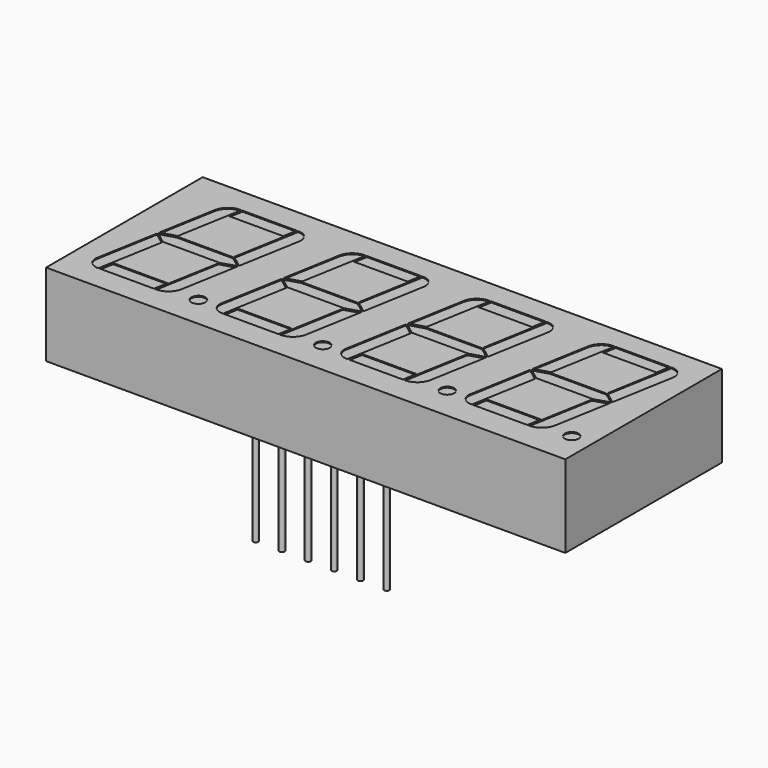
from build123d import *

# Parameters (mm, degrees)
SKETCH_W     = 50.4
SKETCH_H     = 19
PAD_DEPTH    = 8
SKETCH001_R  = 0.255
PAD001_DEPTH = 10
SKETCH002_R  = 0.675
POCKET_DEPTH = 0.1


with BuildPart() as part:
    # Sketch → Pad (new body)
    with BuildSketch(Plane.XY):
        with Locations((25.2, 9.5)):
            Rectangle(SKETCH_W, SKETCH_H)
    extrude(amount=PAD_DEPTH)

    # Sketch001 (on Face5 of Pad) → Pad001 (join)
    with BuildSketch(Plane(origin=(0, 0, 0), x_dir=(1, 0, 0), z_dir=(0, 0, -1))):
        with Locations((18.85, -1.88)):
            Circle(SKETCH001_R)
        with Locations((21.39, -1.88)):
            Circle(SKETCH001_R)
        with Locations((23.93, -1.88)):
            Circle(SKETCH001_R)
        with Locations((26.47, -1.88)):
            Circle(SKETCH001_R)
        with Locations((29.01, -1.88)):
            Circle(SKETCH001_R)
        with Locations((31.55, -1.88)):
            Circle(SKETCH001_R)
        with Locations((18.85, -17.12)):
            Circle(SKETCH001_R)
        with Locations((21.39, -17.12)):
            Circle(SKETCH001_R)
        with Locations((23.93, -17.12)):
            Circle(SKETCH001_R)
        with Locations((26.47, -17.12)):
            Circle(SKETCH001_R)
        with Locations((29.01, -17.12)):
            Circle(SKETCH001_R)
        with Locations((31.55, -17.12)):
            Circle(SKETCH001_R)
    extrude(amount=PAD001_DEPTH)

    # Sketch002 (on Face5 of Pad001) → Pocket (cut)
    with BuildSketch(Plane.XY.offset(8)):
        with Locations((12.322725, 3.075)):
            Circle(SKETCH002_R)
        with Locations((24.347524, 3.14456)):
            Circle(SKETCH002_R)
        with Locations((36.372322, 3.21412)):
            Circle(SKETCH002_R)
        with Locations((48.397121, 3.28368)):
            Circle(SKETCH002_R)
        with BuildLine():
            Line((3.111134, 9.844872), (4.559645, 10.285447))
            Line((4.559645, 10.285447), (5.673071, 16.6))
            Line((5.673071, 16.6), (5.573071, 16.6))
            ThreePointArc((5.573071, 16.6), (4.599562, 16.245672), (4.081569, 15.348481))
            Line((4.081569, 15.348481), (3.111134, 9.844872))
        make_face()
        Polygon((5.774614, 16.6), (5.536573, 15.25), (10.816791, 15.25), (11.054833, 16.6), align=None)
        with BuildLine():
            Line((11.156375, 16.6), (11.256375, 16.6))
            ThreePointArc((12.306525, 15.348481), (12.073246, 16.219087), (11.256375, 16.6))
            Line((12.306525, 15.348481), (11.253419, 9.376022))
            Line((11.253419, 9.376022), (10.042949, 10.285447))
            Line((10.042949, 10.285447), (11.156375, 16.6))
        make_face()
        Polygon((3.091659, 9.734425), (4.540171, 10.175), (10.023474, 10.175), (11.233944, 9.265575), (9.785433, 8.825), (4.302129, 8.825), align=None)
        with BuildLine():
            Line((3.072185, 9.623978), (4.282654, 8.714553))
            Line((4.282654, 8.714553), (3.169228, 2.4))
            Line((3.169228, 2.4), (3.069228, 2.4))
            ThreePointArc((2.019079, 3.651519), (2.252357, 2.780913), (3.069228, 2.4))
            Line((2.019079, 3.651519), (3.072185, 9.623978))
        make_face()
        with BuildLine():
            Line((11.214469, 9.155128), (9.765958, 8.714553))
            Line((9.765958, 8.714553), (8.652532, 2.4))
            Line((8.652532, 2.4), (8.752532, 2.4))
            ThreePointArc((8.752532, 2.4), (9.726041, 2.754328), (10.244035, 3.651519))
            Line((10.244035, 3.651519), (11.214469, 9.155128))
        make_face()
        Polygon((3.270771, 2.4), (8.550989, 2.4), (8.789031, 3.75), (3.508812, 3.75), align=None)
        with BuildLine():
            Line((15.135933, 9.914432), (16.584444, 10.355007))
            Line((16.584444, 10.355007), (17.69787, 16.66956))
            Line((17.69787, 16.66956), (17.59787, 16.66956))
            ThreePointArc((17.59787, 16.66956), (16.624361, 16.315232), (16.106368, 15.418041))
            Line((16.106368, 15.418041), (15.135933, 9.914432))
        make_face()
        Polygon((17.799413, 16.66956), (17.561372, 15.31956), (22.84159, 15.31956), (23.079631, 16.66956), align=None)
        with BuildLine():
            Line((23.181174, 16.66956), (23.281174, 16.66956))
            ThreePointArc((24.331323, 15.418041), (24.098045, 16.288647), (23.281174, 16.66956))
            Line((24.331323, 15.418041), (23.278218, 9.445581))
            Line((23.278218, 9.445581), (22.067748, 10.355007))
            Line((22.067748, 10.355007), (23.181174, 16.66956))
        make_face()
        Polygon((15.116458, 9.803985), (16.564969, 10.24456), (22.048273, 10.24456), (23.258743, 9.335135), (21.810232, 8.89456), (16.326928, 8.89456), align=None)
        with BuildLine():
            Line((15.096984, 9.693538), (16.307453, 8.784113))
            Line((16.307453, 8.784113), (15.194027, 2.46956))
            Line((15.194027, 2.46956), (15.094027, 2.46956))
            ThreePointArc((14.043878, 3.721079), (14.277156, 2.850473), (15.094027, 2.46956))
            Line((14.043878, 3.721079), (15.096984, 9.693538))
        make_face()
        with BuildLine():
            Line((23.239268, 9.224688), (21.790757, 8.784113))
            Line((21.790757, 8.784113), (20.677331, 2.46956))
            Line((20.677331, 2.46956), (20.777331, 2.46956))
            ThreePointArc((20.777331, 2.46956), (21.75084, 2.823888), (22.268833, 3.721079))
            Line((22.268833, 3.721079), (23.239268, 9.224688))
        make_face()
        Polygon((15.29557, 2.46956), (20.575788, 2.46956), (20.81383, 3.81956), (15.533611, 3.81956), align=None)
        with BuildLine():
            Line((27.160732, 9.983991), (28.609243, 10.424566))
            Line((28.609243, 10.424566), (29.722669, 16.73912))
            Line((29.722669, 16.73912), (29.622669, 16.73912))
            ThreePointArc((29.622669, 16.73912), (28.64916, 16.384791), (28.131167, 15.487601))
            Line((28.131167, 15.487601), (27.160732, 9.983991))
        make_face()
        Polygon((29.824212, 16.73912), (29.58617, 15.38912), (34.866389, 15.38912), (35.10443, 16.73912), align=None)
        with BuildLine():
            Line((35.205973, 16.73912), (35.305973, 16.73912))
            ThreePointArc((36.356122, 15.487601), (36.122844, 16.358206), (35.305973, 16.73912))
            Line((36.356122, 15.487601), (35.303016, 9.515141))
            Line((35.303016, 9.515141), (34.092547, 10.424566))
            Line((34.092547, 10.424566), (35.205973, 16.73912))
        make_face()
        Polygon((27.141257, 9.873545), (28.589768, 10.31412), (34.073072, 10.31412), (35.283542, 9.404695), (33.835031, 8.96412), (28.351727, 8.96412), align=None)
        with BuildLine():
            Line((27.121782, 9.763098), (28.332252, 8.853673))
            Line((28.332252, 8.853673), (27.218826, 2.53912))
            Line((27.218826, 2.53912), (27.118826, 2.53912))
            ThreePointArc((26.068677, 3.790639), (26.301955, 2.920033), (27.118826, 2.53912))
            Line((26.068677, 3.790639), (27.121782, 9.763098))
        make_face()
        with BuildLine():
            Line((35.264067, 9.294248), (33.815556, 8.853673))
            Line((33.815556, 8.853673), (32.70213, 2.53912))
            Line((32.70213, 2.53912), (32.80213, 2.53912))
            ThreePointArc((32.80213, 2.53912), (33.775639, 2.893448), (34.293632, 3.790639))
            Line((34.293632, 3.790639), (35.264067, 9.294248))
        make_face()
        Polygon((27.320369, 2.53912), (32.600587, 2.53912), (32.838628, 3.88912), (27.55841, 3.88912), align=None)
        with BuildLine():
            Line((39.185531, 10.053551), (40.634042, 10.494126))
            Line((40.634042, 10.494126), (41.747468, 16.80868))
            Line((41.747468, 16.80868), (41.647468, 16.80868))
            ThreePointArc((41.647468, 16.80868), (40.673959, 16.454351), (40.155965, 15.55716))
            Line((40.155965, 15.55716), (39.185531, 10.053551))
        make_face()
        Polygon((41.849011, 16.80868), (41.610969, 15.45868), (46.891188, 15.45868), (47.129229, 16.80868), align=None)
        with BuildLine():
            Line((47.230772, 16.80868), (47.330772, 16.80868))
            ThreePointArc((48.380921, 15.55716), (48.147643, 16.427766), (47.330772, 16.80868))
            Line((48.380921, 15.55716), (47.327815, 9.584701))
            Line((47.327815, 9.584701), (46.117346, 10.494126))
            Line((46.117346, 10.494126), (47.230772, 16.80868))
        make_face()
        Polygon((39.166056, 9.943105), (40.614567, 10.38368), (46.097871, 10.38368), (47.308341, 9.474255), (45.859829, 9.03368), (40.376526, 9.03368), align=None)
        with BuildLine():
            Line((39.146581, 9.832658), (40.357051, 8.923233))
            Line((40.357051, 8.923233), (39.243625, 2.60868))
            Line((39.243625, 2.60868), (39.143625, 2.60868))
            ThreePointArc((38.093475, 3.860199), (38.326754, 2.989593), (39.143625, 2.60868))
            Line((38.093475, 3.860199), (39.146581, 9.832658))
        make_face()
        with BuildLine():
            Line((47.288866, 9.363808), (45.840355, 8.923233))
            Line((45.840355, 8.923233), (44.726929, 2.60868))
            Line((44.726929, 2.60868), (44.826929, 2.60868))
            ThreePointArc((44.826929, 2.60868), (45.800438, 2.963008), (46.318431, 3.860199))
            Line((46.318431, 3.860199), (47.288866, 9.363808))
        make_face()
        Polygon((39.345167, 2.60868), (44.625386, 2.60868), (44.863427, 3.95868), (39.583209, 3.95868), align=None)
    extrude(amount=-POCKET_DEPTH, mode=Mode.SUBTRACT)


solid = part.part
